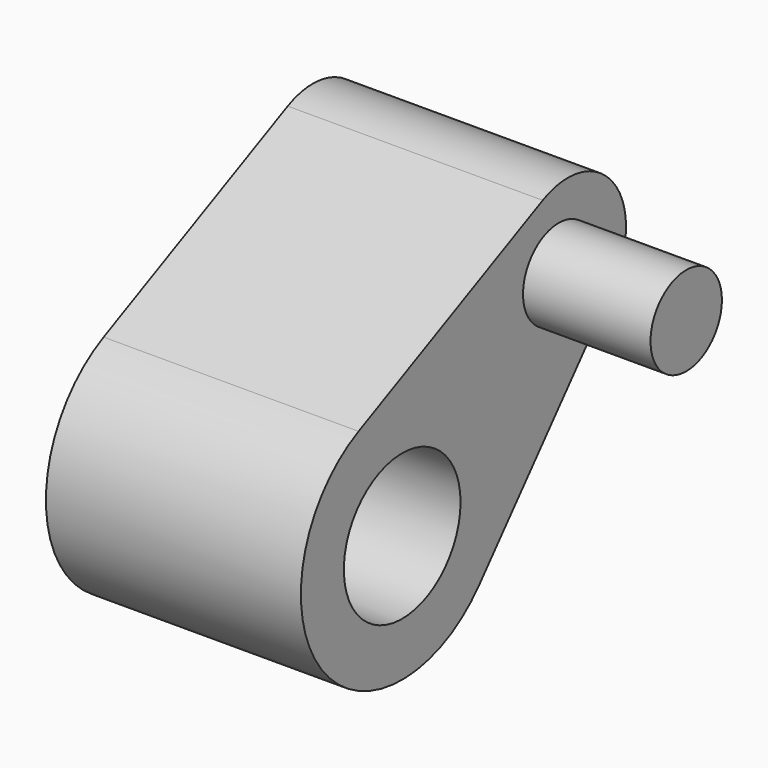
from build123d import *

# Parameters (mm, degrees)
F0_R     = 7.2644
F1_DEPTH = 25.4
F2_R     = 4.445
F3_DEPTH = 38.1


with BuildPart() as f1:
    # F0 (on Right) → F1 (new body)
    with BuildSketch(Plane.YZ):
        with BuildLine():
            ThreePointArc((-22.047149, -27.589325), (-19.787361, -23.752651), (-19.001454, -19.369838))
            ThreePointArc((-19.001454, -19.369838), (-24.885128, -8.701443), (-37.047349, -7.985452))
            ThreePointArc((-37.047349, -7.985452), (-41.633101, -27.035061), (-22.047149, -27.589325))
        make_face()
        with Locations((-31.615363, -19.369838)):
            Circle(F0_R, mode=Mode.SUBTRACT)
        with BuildLine():
            ThreePointArc((-37.047349, -7.985452), (-24.885128, -8.701443), (-19.001454, -19.369838))
            ThreePointArc((-19.001454, -19.369838), (-19.787361, -23.752651), (-22.047149, -27.589325))
            Line((-22.047149, -27.589325), (-5.495977, -8.322288))
            ThreePointArc((-5.495977, -8.322288), (-16.760624, -8.003509), (-14.123179, 2.952667))
            Line((-14.123179, 2.952667), (-37.047349, -7.985452))
        make_face()
        with BuildLine():
            ThreePointArc((-3.744279, -3.594939), (-7.12821, 2.540872), (-14.123179, 2.952667))
            ThreePointArc((-14.123179, 2.952667), (-16.760624, -8.003509), (-5.495977, -8.322288))
            ThreePointArc((-5.495977, -8.322288), (-4.196284, -6.115667), (-3.744279, -3.594939))
        make_face()
    extrude(amount=F1_DEPTH)

    # F2 (on Right) → F3 (join)
    with BuildSketch(Plane.YZ):
        with Locations((-12.125393, -4.282554)):
            Circle(F2_R)
    extrude(amount=F3_DEPTH)


solid = f1.part
